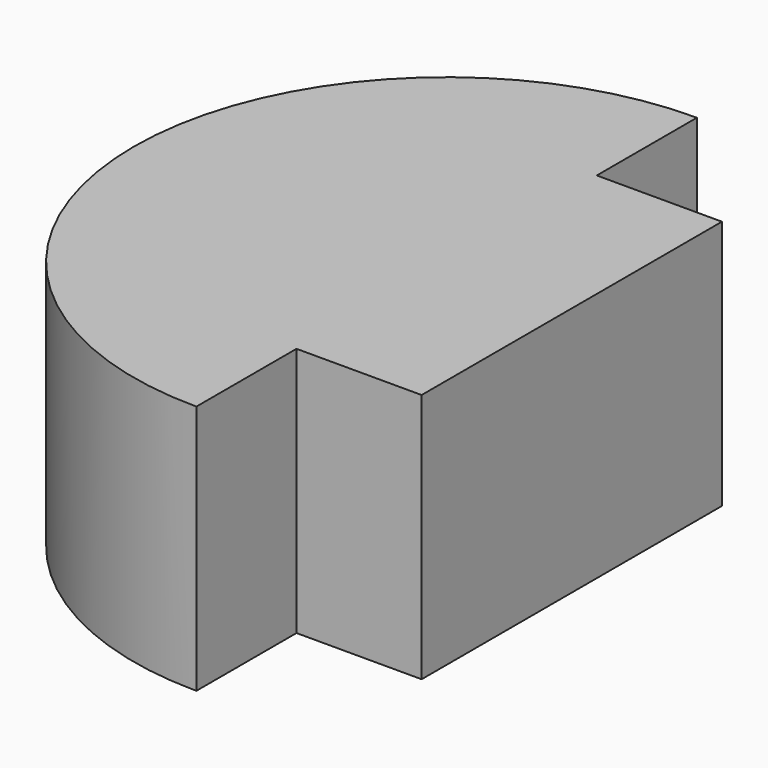
from build123d import *

# Parameters (mm, degrees)
F1_DEPTH = 10


with BuildPart() as f1:
    # F0 (on Top) → F1 (new body)
    with BuildSketch(Plane.XY):
        with BuildLine():
            Line((0, 7.5), (0, 12.5))
            ThreePointArc((0, 12.5), (-12.5, 0), (0, -12.5))
            Line((0, -12.5), (0, -7.5))
            Line((0, -7.5), (5, -7.5))
            Line((5, -7.5), (5, 7.5))
            Line((5, 7.5), (0, 7.5))
        make_face()
    extrude(amount=F1_DEPTH)


solid = f1.part
